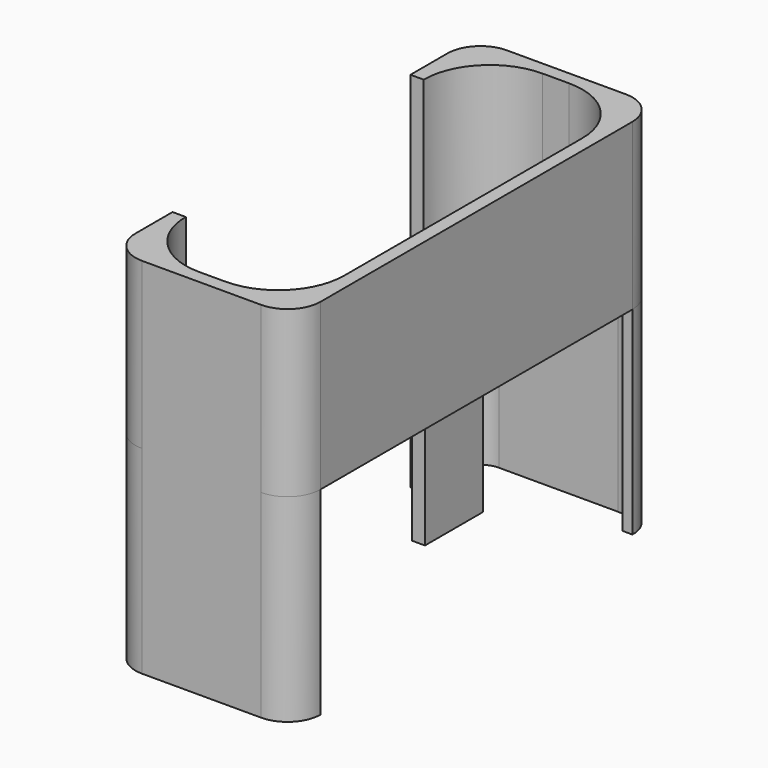
from build123d import *

# Parameters (mm, degrees)
F0_W      = 28
F0_H      = 69
F1_DEPTH  = 25
F2_T      = -2
F3_R      = 5
F4_R      = 10
F5_W      = 6.9
F5_H      = 11
F6_DEPTH  = 25
F7_W      = 2
F7_H      = 45
F8_DEPTH  = 25
F10_W     = 2
F10_H     = 11
F11_DEPTH = 18
F12_DEPTH = 30


with BuildPart() as f1:
    # F0 (on Top) → F1 (new body)
    with BuildSketch(Plane.XY):
        with Locations((-14.1341709197, 3.2960948795)):
            Rectangle(F0_W, F0_H)
    extrude(amount=F1_DEPTH)

    # F2
    f2_openings = [f1.faces().sort_by_distance(p)[0] for p in [
        (-14.134171, 3.296095, 25),
    ]]
    offset(amount=F2_T, openings=f2_openings)

    # F3
    f3_edges = [f1.edges().sort_by_distance(p)[0] for p in [
        (-0.134171, -31.203905, 12.5),
        (-28.134171, -31.203905, 12.5),
        (-0.134171, 37.796095, 12.5),
        (-28.134171, 37.796095, 12.5),
    ]]
    fillet(f3_edges, radius=F3_R)

    # F4
    f4_edges = [f1.edges().sort_by_distance(p)[0] for p in [
        (-26.134171, 35.796095, 13.5),
        (-26.134171, -29.203905, 13.5),
        (-2.134171, -29.203905, 13.5),
        (-2.134171, 35.796095, 13.5),
    ]]
    fillet(f4_edges, radius=F4_R)

    # F5 (on face) → F6 (cut)
    with BuildSketch(Plane.XY.offset(2)):
        with Locations((-8.5841709197, 2.7960948795)):
            Rectangle(F5_W, F5_H)
    extrude(amount=-F6_DEPTH, mode=Mode.SUBTRACT)

    # F7 (on face) → F8 (cut)
    with BuildSketch(Plane.XY.offset(25)):
        with Locations((-27.1341709197, 3.2960948795)):
            Rectangle(F7_W, F7_H)
    extrude(amount=-F8_DEPTH, mode=Mode.SUBTRACT)

    # F10 (on face) → F11 (join)
    with BuildSketch(Plane(origin=(0, 0, 0), x_dir=(1, 0, 0), z_dir=(0, 0, -1))):
        with Locations((-4.1341709197, -2.7960948795)):
            Rectangle(F10_W, F10_H)
    extrude(amount=F11_DEPTH)

    # F10 (on face) → F12 (join)
    with BuildSketch(Plane(origin=(0, 0, 0), x_dir=(1, 0, 0), z_dir=(0, 0, -1))):
        with BuildLine():
            ThreePointArc((-1.6341702342, -32.7960948795), (-2.6592967008, -35.2709690983), (-5.1341709197, -36.296095565))
            Line((-5.1341709197, -36.296095565), (-23.1341709197, -36.296095565))
            ThreePointArc((-23.1341709197, -36.296095565), (-25.6090451385, -35.2709690983), (-26.6341716051, -32.7960948795))
            Line((-26.6341716051, -32.7960948795), (-26.6341716051, -25.7960948795))
            Line((-26.6341716051, -25.7960948795), (-28.1341709197, -25.7960948795))
            Line((-28.1341709197, -25.7960948795), (-28.1341709197, -32.7960948795))
            ThreePointArc((-28.1341709197, -32.7960948795), (-26.6697048256, -36.3316287854), (-23.1341709197, -37.7960948795))
            Line((-23.1341709197, -37.7960948795), (-5.1341709197, -37.7960948795))
            ThreePointArc((-5.1341709197, -37.7960948795), (-1.5986370137, -36.3316287854), (-0.1341709197, -32.7960948795))
            Line((-0.1341709197, -32.7960948795), (-1.6341702342, -32.7960948795))
        make_face()
        with BuildLine():
            Line((-1.6341709197, 26.2039051205), (-0.1341709197, 26.2039051205))
            ThreePointArc((-0.1341709197, 26.2039051205), (-1.5986370137, 29.7394390264), (-5.1341709197, 31.2039051205))
            Line((-5.1341709197, 31.2039051205), (-23.1341709197, 31.2039051205))
            ThreePointArc((-23.1341709197, 31.2039051205), (-26.6697048256, 29.7394390264), (-28.1341709197, 26.2039051205))
            Line((-28.1341709197, 26.2039051205), (-28.1341709197, 19.2039051205))
            Line((-28.1341709197, 19.2039051205), (-26.6341709197, 19.2039051205))
            Line((-26.6341709197, 19.2039051205), (-26.6341709197, 26.2039051205))
            ThreePointArc((-26.6341709197, 26.2039051205), (-25.6090446538, 28.6787788546), (-23.1341709197, 29.7039051205))
            Line((-23.1341709197, 29.7039051205), (-5.1341709197, 29.7039051205))
            ThreePointArc((-5.1341709197, 29.7039051205), (-2.6592971855, 28.6787788546), (-1.6341709197, 26.2039051205))
        make_face()
    extrude(amount=F12_DEPTH)


solid = f1.part
